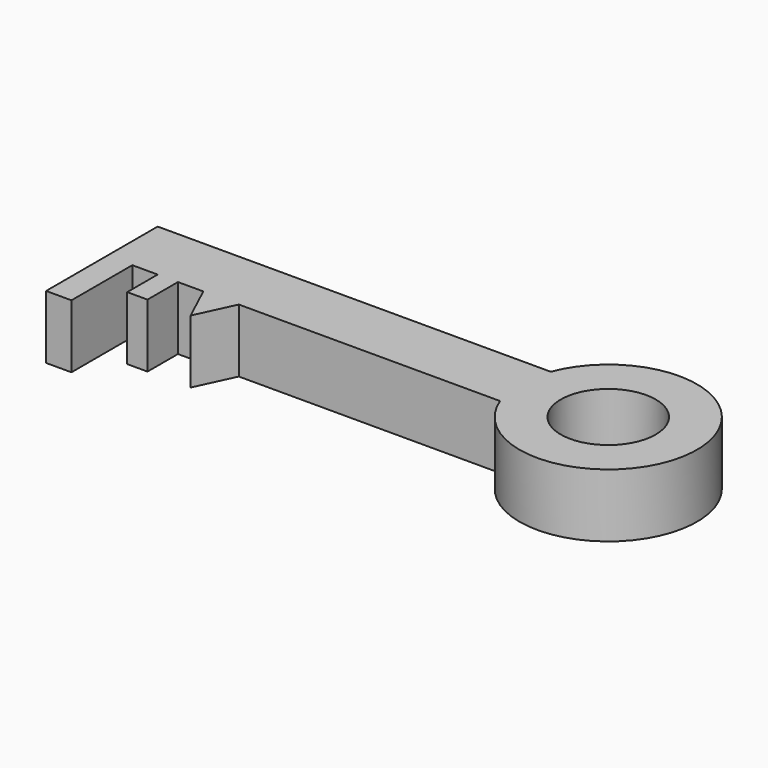
from build123d import *

# Parameters (mm, degrees)
F0_R     = 18.728971
F1_DEPTH = 25


with BuildPart() as f1:
    # F0 (on Top) → F1 (new body)
    with BuildSketch(Plane.XY):
        with BuildLine():
            Line((75.772218, 18.38066), (-79.227782, 18.38066))
            Line((-79.227782, 18.38066), (-79.227782, -6.61934))
            Line((-79.227782, -6.61934), (-79.227782, -36.61934))
            Line((-79.227782, -36.61934), (-69.227782, -36.61934))
            Line((-69.227782, -36.61934), (-69.227782, -6.61934))
            Line((-69.227782, -6.61934), (-59.227782, -6.61934))
            Line((-59.227782, -6.61934), (-59.227782, -21.61934))
            Line((-59.227782, -21.61934), (-51.227782, -21.61934))
            Line((-51.227782, -21.61934), (-51.227782, -6.61934))
            Line((-51.227782, -6.61934), (-41.227782, -6.61934))
            Line((-41.227782, -6.61934), (-34.227653, -21.61934))
            Line((-34.227653, -21.61934), (-27.227524, -6.61934))
            Line((-27.227524, -6.61934), (75.772218, -6.61934))
            ThreePointArc((75.772218, -6.61934), (143.46396, 5.88066), (75.772218, 18.38066))
        make_face()
        with Locations((108.46396, 5.88066)):
            Circle(F0_R, mode=Mode.SUBTRACT)
    extrude(amount=F1_DEPTH)


solid = f1.part
